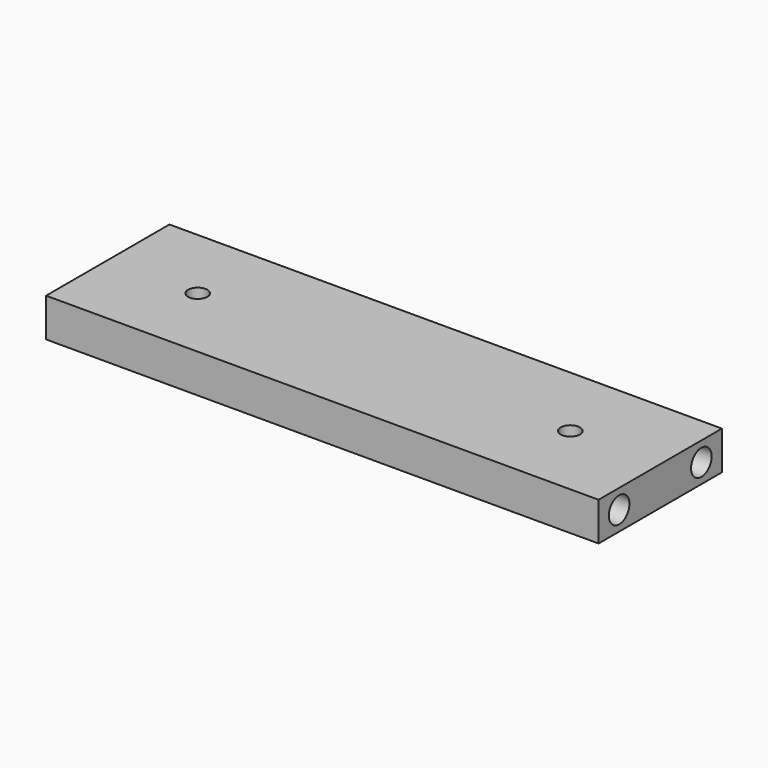
from build123d import *

# Parameters (mm, degrees)
SKETCH_W        = 86
SKETCH_H        = 24
SKETCH_R        = 1.5
PAD_DEPTH       = 6
SKETCH002_R     = 2
POCKET_DEPTH    = 10
SKETCH003_R     = 2
POCKET001_DEPTH = 10


with BuildPart() as part:
    # Sketch → Pad (new body)
    with BuildSketch(Plane.XY):
        with Locations((43, 12)):
            Rectangle(SKETCH_W, SKETCH_H)
        with Locations((13.999996, 11.999945)):
            Circle(SKETCH_R, mode=Mode.SUBTRACT)
        with Locations((71.999985, 11.999591)):
            Circle(SKETCH_R, mode=Mode.SUBTRACT)
    extrude(amount=PAD_DEPTH)

    # Sketch002 (on Face2 of Pad) → Pocket (cut)
    with BuildSketch(Plane.YZ.offset(86)):
        with Locations((3.999421, 2.998608)):
            Circle(SKETCH002_R)
        with Locations((19.998423, 2.997373)):
            Circle(SKETCH002_R)
    extrude(amount=-POCKET_DEPTH, mode=Mode.SUBTRACT)

    # Sketch003 (on Face2 of Pocket) → Pocket001 (cut)
    with BuildSketch(Plane(origin=(0, 0, 0), x_dir=(0, -1, 0), z_dir=(-1, 0, 0))):
        with Locations((-4.000442, 2.999754)):
            Circle(SKETCH003_R)
        with Locations((-20.000246, 2.999371)):
            Circle(SKETCH003_R)
    extrude(amount=-POCKET001_DEPTH, mode=Mode.SUBTRACT)


solid = part.part
